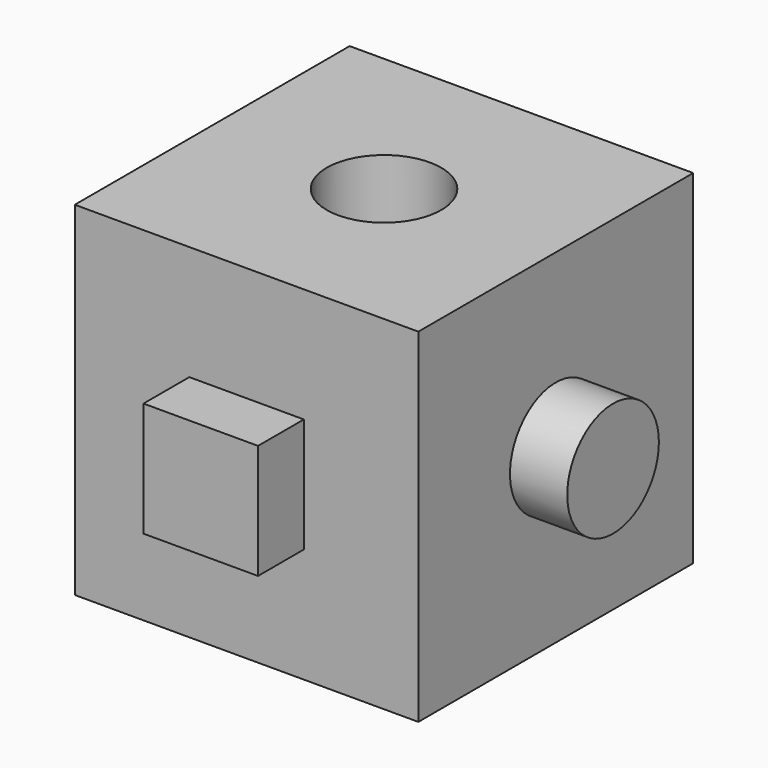
from build123d import *

# Parameters (mm, degrees)
F0_W     = 76.2
F0_H     = 76.2
F1_DEPTH = 76.2
F2_W     = 25.4
F2_H     = 25.4
F3_DEPTH = 12.7
F4_R     = 12.7
F5_DEPTH = 12.7
F7_D     = 25.4


with BuildPart() as f1:
    # F0 (on Front) → F1 (new body)
    with BuildSketch(Plane.XZ):
        with Locations((0.379195, 6.980339)):
            Rectangle(F0_W, F0_H)
    extrude(amount=-F1_DEPTH)

    # F2 (on Front) → F3 (join)
    with BuildSketch(Plane.XZ):
        with Locations((0.379195, 6.980339)):
            Rectangle(F2_W, F2_H)
    extrude(amount=F3_DEPTH)

    # F4 (on face) → F5 (join)
    with BuildSketch(Plane.YZ.offset(38.479195)):
        with Locations((38.1, 6.980339)):
            Circle(F4_R)
    extrude(amount=F5_DEPTH)

    # F7 (through all)
    with Locations(Plane.XY.offset(45.080339)):
        with Locations((0.379195, 38.1)):
            Hole(F7_D / 2)


solid = f1.part
